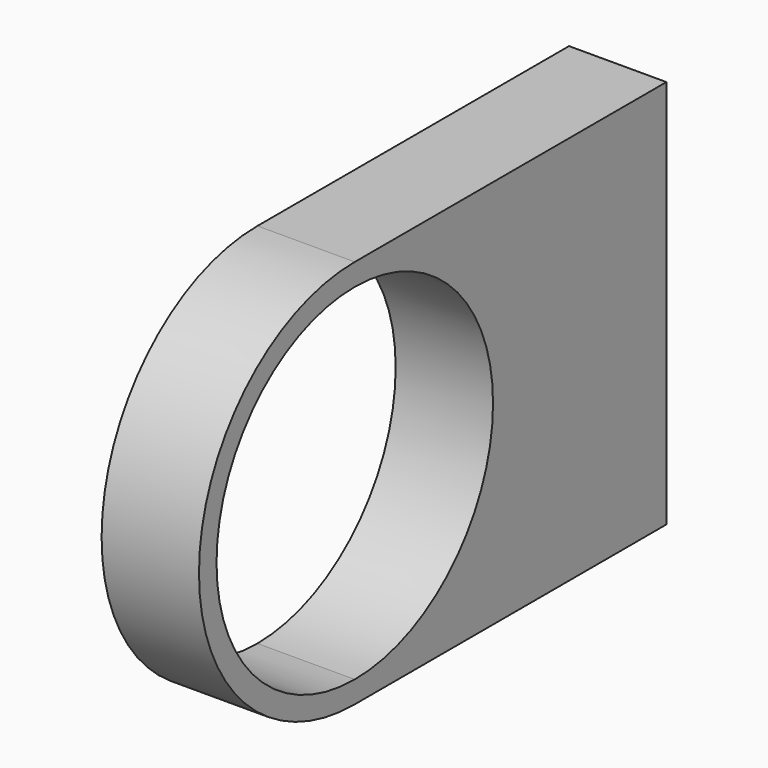
from build123d import *

# Parameters (mm, degrees)
F1_DEPTH = 12.7


with BuildPart() as f1:
    # F0 (on Right) → F1 (new body)
    with BuildSketch(Plane.YZ):
        with BuildLine():
            Line((0, -8.859274), (0, 41.940726))
            Line((0, 41.940726), (-50.8, 41.940726))
            ThreePointArc((-50.8, 41.940726), (-32.839488, 34.501239), (-25.4, 16.540726))
            ThreePointArc((-25.4, 16.540726), (-32.839488, -1.419786), (-50.8, -8.859274))
            Line((-50.8, -8.859274), (0, -8.859274))
        make_face()
        with BuildLine():
            ThreePointArc((-25.4, 16.540726), (-32.839488, 34.501239), (-50.8, 41.940726))
            ThreePointArc((-50.8, 41.940726), (-76.2, 16.540726), (-50.8, -8.859274))
            ThreePointArc((-50.8, -8.859274), (-32.839488, -1.419786), (-25.4, 16.540726))
        make_face()
        with BuildLine():
            ThreePointArc((-50.8, -5.997586), (-73.338312, 16.540726), (-50.8, 39.079039))
            ThreePointArc((-50.8, 39.079039), (-28.261688, 16.540726), (-50.8, -5.997586))
        make_face(mode=Mode.SUBTRACT)
    extrude(amount=F1_DEPTH)


solid = f1.part
